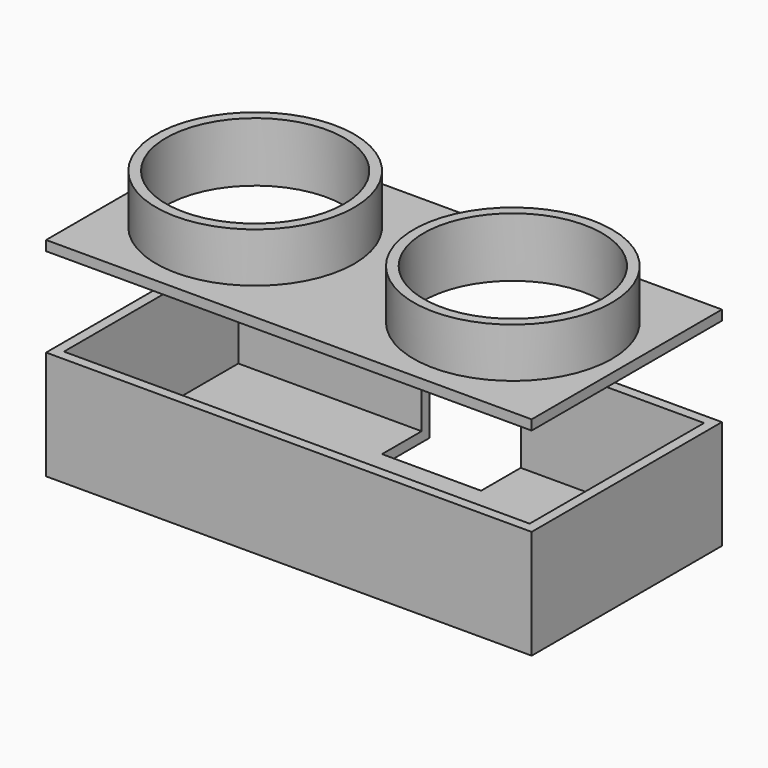
from build123d import *

# Parameters (mm, degrees)
SKETCH_W        = 49
SKETCH_H        = 24
PAD_DEPTH       = 1
SKETCH001_R     = 10
PAD001_DEPTH    = 6
SKETCH002_R     = 9
POCKET_DEPTH    = 10
SKETCH003_W     = 49
SKETCH003_H     = 24
PAD002_DEPTH    = 1
SKETCH004_W     = 49
SKETCH004_H     = 24
SKETCH004_W_2   = 47
SKETCH004_H_2   = 22
PAD003_DEPTH    = 11
SKETCH005_W     = 10
SKETCH005_H     = 10
POCKET001_DEPTH = 6
SKETCH006_R     = 2
POCKET002_DEPTH = 5


with BuildPart() as front:
    # Sketch → Pad (new body)
    with BuildSketch(Plane.XY.offset(20)):
        with Locations((24.5, 12)):
            Rectangle(SKETCH_W, SKETCH_H)
    extrude(amount=PAD_DEPTH)

    # Sketch001 → Pad001 (join)
    with BuildSketch(Plane.XY.offset(20)):
        with Locations((11.5, 12)):
            Circle(SKETCH001_R)
        with Locations((37.5, 12)):
            Circle(SKETCH001_R)
    extrude(amount=PAD001_DEPTH)

    # Sketch002 → Pocket (cut, symmetric)
    with BuildSketch(Plane.XY.offset(20)):
        with Locations((11.5, 12)):
            Circle(SKETCH002_R)
        with Locations((37.5, 12)):
            Circle(SKETCH002_R)
    extrude(amount=POCKET_DEPTH, both=True, mode=Mode.SUBTRACT)


with BuildPart() as rear:
    # Sketch003 → Pad002 (new body)
    with BuildSketch(Plane.XY):
        with Locations((24.5, 12)):
            Rectangle(SKETCH003_W, SKETCH003_H)
    extrude(amount=PAD002_DEPTH)

    # Sketch004 → Pad003 (join)
    with BuildSketch(Plane.XY):
        with Locations((24.5, 12)):
            Rectangle(SKETCH004_W, SKETCH004_H)
        with Locations((24.5, 12)):
            Rectangle(SKETCH004_W_2, SKETCH004_H_2, mode=Mode.SUBTRACT)
    extrude(amount=PAD003_DEPTH)

    # Sketch005 (on Face5 of Pad003) → Pocket001 (cut)
    with BuildSketch(Plane(origin=(0, 24, 0), x_dir=(-1, 0, 0), z_dir=(0, 1, 0))):
        with Locations((-24.5, 1)):
            Rectangle(SKETCH005_W, SKETCH005_H)
    extrude(amount=-POCKET001_DEPTH, mode=Mode.SUBTRACT)

    # Sketch006 (on Face12 of Pocket001) → Pocket002 (cut)
    with BuildSketch(Plane.XY.offset(1)):
        with Locations((17, 13.727225)):
            Circle(SKETCH006_R)
        with Locations((32, 13.727225)):
            Circle(SKETCH006_R)
    extrude(amount=-POCKET002_DEPTH, mode=Mode.SUBTRACT)


solid = Compound([front.part, rear.part])
